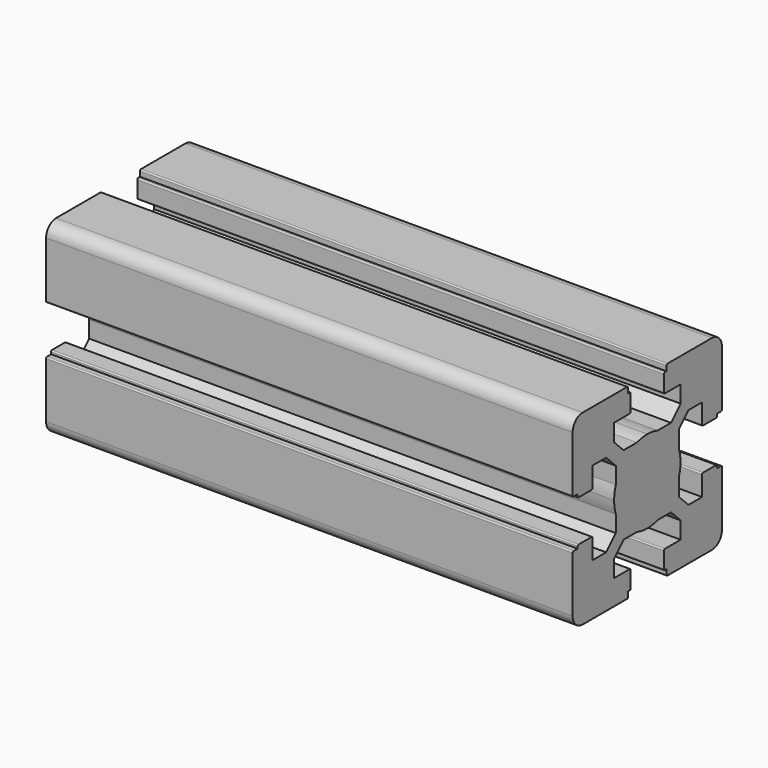
from build123d import *

# Parameters (mm, degrees)
F1_DEPTH = 127


with BuildPart() as f1:
    # F0 (on Right) → F1 (new body)
    with BuildSketch(Plane.YZ):
        with BuildLine():
            Line((-20.088481, -9.788837), (-20.088481, -10.288837))
            Line((-20.088481, -10.288837), (-21.28859, -10.288837))
            ThreePointArc((-21.28859, -10.288837), (-21.500722, -10.376705), (-21.58859, -10.588837))
            Line((-21.58859, -10.588837), (-21.58859, -23.988949))
            ThreePointArc((-21.58859, -23.988949), (-20.70991, -26.11027), (-18.58859, -26.988949))
            Line((-18.58859, -26.988949), (-5.188544, -26.988949))
            ThreePointArc((-5.188544, -26.988949), (-4.976411, -26.901081), (-4.888544, -26.688949))
            Line((-4.888544, -26.688949), (-4.888544, -25.488841))
            Line((-4.888544, -25.488841), (-4.388544, -25.488841))
            ThreePointArc((-4.388544, -25.488841), (-4.176411, -25.400973), (-4.088544, -25.188841))
            Line((-4.088544, -25.188841), (-4.088544, -21.288841))
            ThreePointArc((-4.088544, -21.288841), (-4.176411, -21.076709), (-4.388544, -20.988841))
            Line((-4.388544, -20.988841), (-9.138663, -20.988841))
            Line((-9.138663, -20.988841), (-9.138663, -16.881665))
            Line((-9.138663, -16.881665), (-6.245729, -13.988731))
            Line((-6.245729, -13.988731), (-2.211433, -13.988731))
            ThreePointArc((-2.211433, -13.988731), (-0.669869, -14.363044), (0.91149, -14.48887))
            Line((0.91149, -14.48887), (0.91149, -4.48887))
            Line((0.91149, -4.48887), (-9.08851, -4.48887))
            ThreePointArc((-9.08851, -4.48887), (-8.962684, -6.070229), (-8.588371, -7.611793))
            Line((-8.588371, -7.611793), (-8.588371, -11.646022))
            Line((-8.588371, -11.646022), (-11.481305, -14.538956))
            Line((-11.481305, -14.538956), (-15.588481, -14.538956))
            Line((-15.588481, -14.538956), (-15.588481, -9.788837))
            ThreePointArc((-15.588481, -9.788837), (-15.676349, -9.576705), (-15.888481, -9.488837))
            Line((-15.888481, -9.488837), (-19.788481, -9.488837))
            ThreePointArc((-19.788481, -9.488837), (-20.000613, -9.576705), (-20.088481, -9.788837))
        make_face()
        with BuildLine():
            ThreePointArc((-8.588371, -1.365947), (-8.962684, -2.907511), (-9.08851, -4.48887))
            Line((-9.08851, -4.48887), (0.91149, -4.48887))
            Line((0.91149, -4.48887), (0.91149, 5.51113))
            ThreePointArc((0.91149, 5.51113), (-0.669869, 5.385303), (-2.211433, 5.010991))
            Line((-2.211433, 5.010991), (-6.245729, 5.010991))
            Line((-6.245729, 5.010991), (-9.138663, 7.903925))
            Line((-9.138663, 7.903925), (-9.138663, 12.011101))
            Line((-9.138663, 12.011101), (-4.388544, 12.011101))
            ThreePointArc((-4.388544, 12.011101), (-4.176411, 12.098969), (-4.088544, 12.311101))
            Line((-4.088544, 12.311101), (-4.088544, 16.211101))
            ThreePointArc((-4.088544, 16.211101), (-4.176411, 16.423233), (-4.388544, 16.511101))
            Line((-4.388544, 16.511101), (-4.888544, 16.511101))
            Line((-4.888544, 16.511101), (-4.888544, 17.711209))
            ThreePointArc((-4.888544, 17.711209), (-4.976411, 17.923341), (-5.188544, 18.011209))
            Line((-5.188544, 18.011209), (-18.58859, 18.011209))
            ThreePointArc((-18.58859, 18.011209), (-20.70991, 17.13253), (-21.58859, 15.011209))
            Line((-21.58859, 15.011209), (-21.58859, 1.611097))
            ThreePointArc((-21.58859, 1.611097), (-21.500722, 1.398965), (-21.28859, 1.311097))
            Line((-21.28859, 1.311097), (-20.088481, 1.311097))
            Line((-20.088481, 1.311097), (-20.088481, 0.811097))
            ThreePointArc((-20.088481, 0.811097), (-20.000613, 0.598965), (-19.788481, 0.511097))
            Line((-19.788481, 0.511097), (-15.888481, 0.511097))
            ThreePointArc((-15.888481, 0.511097), (-15.676349, 0.598965), (-15.588481, 0.811097))
            Line((-15.588481, 0.811097), (-15.588481, 5.561216))
            Line((-15.588481, 5.561216), (-11.481305, 5.561216))
            Line((-11.481305, 5.561216), (-8.588371, 2.668282))
            Line((-8.588371, 2.668282), (-8.588371, -1.365947))
        make_face()
        with BuildLine():
            Line((0.91149, 5.51113), (0.91149, -4.48887))
            Line((0.91149, -4.48887), (10.91149, -4.48887))
            ThreePointArc((10.91149, -4.48887), (10.785663, -2.907511), (10.41135, -1.365947))
            Line((10.41135, -1.365947), (10.41135, 2.668282))
            Line((10.41135, 2.668282), (13.304285, 5.561216))
            Line((13.304285, 5.561216), (14.016842, 5.561216))
            Line((14.016842, 5.561216), (17.41146, 5.561216))
            Line((17.41146, 5.561216), (17.41146, 0.811097))
            ThreePointArc((17.41146, 0.811097), (17.499328, 0.598965), (17.71146, 0.511097))
            Line((17.71146, 0.511097), (21.61146, 0.511097))
            ThreePointArc((21.61146, 0.511097), (21.823593, 0.598965), (21.91146, 0.811097))
            Line((21.91146, 0.811097), (21.91146, 1.311097))
            Line((21.91146, 1.311097), (23.111569, 1.311097))
            ThreePointArc((23.111569, 1.311097), (23.323701, 1.398965), (23.411569, 1.611097))
            Line((23.411569, 1.611097), (23.411569, 15.011209))
            ThreePointArc((23.411569, 15.011209), (22.532889, 17.13253), (20.411569, 18.011209))
            Line((20.411569, 18.011209), (7.011523, 18.011209))
            ThreePointArc((7.011523, 18.011209), (6.799391, 17.923341), (6.711523, 17.711209))
            Line((6.711523, 17.711209), (6.711523, 16.511101))
            Line((6.711523, 16.511101), (6.211523, 16.511101))
            ThreePointArc((6.211523, 16.511101), (5.999391, 16.423233), (5.911523, 16.211101))
            Line((5.911523, 16.211101), (5.911523, 12.311101))
            ThreePointArc((5.911523, 12.311101), (5.999391, 12.098969), (6.211523, 12.011101))
            Line((6.211523, 12.011101), (10.961642, 12.011101))
            Line((10.961642, 12.011101), (10.961642, 7.903925))
            Line((10.961642, 7.903925), (8.068708, 5.010991))
            Line((8.068708, 5.010991), (4.034413, 5.010991))
            ThreePointArc((4.034413, 5.010991), (2.492849, 5.385303), (0.91149, 5.51113))
        make_face()
        with BuildLine():
            Line((10.91149, -4.48887), (0.91149, -4.48887))
            Line((0.91149, -4.48887), (0.91149, -14.48887))
            ThreePointArc((0.91149, -14.48887), (2.492849, -14.363044), (4.034413, -13.988731))
            Line((4.034413, -13.988731), (8.068708, -13.988731))
            Line((8.068708, -13.988731), (10.961642, -16.881665))
            Line((10.961642, -16.881665), (10.961642, -20.988841))
            Line((10.961642, -20.988841), (6.211523, -20.988841))
            ThreePointArc((6.211523, -20.988841), (5.999391, -21.076709), (5.911523, -21.288841))
            Line((5.911523, -21.288841), (5.911523, -25.188841))
            ThreePointArc((5.911523, -25.188841), (5.999391, -25.400973), (6.211523, -25.488841))
            Line((6.211523, -25.488841), (6.711523, -25.488841))
            Line((6.711523, -25.488841), (6.711523, -26.688949))
            ThreePointArc((6.711523, -26.688949), (6.799391, -26.901081), (7.011523, -26.988949))
            Line((7.011523, -26.988949), (20.411569, -26.988949))
            ThreePointArc((20.411569, -26.988949), (22.532889, -26.11027), (23.411569, -23.988949))
            Line((23.411569, -23.988949), (23.411569, -10.588837))
            ThreePointArc((23.411569, -10.588837), (23.323701, -10.376705), (23.111569, -10.288837))
            Line((23.111569, -10.288837), (21.91146, -10.288837))
            Line((21.91146, -10.288837), (21.91146, -9.788837))
            ThreePointArc((21.91146, -9.788837), (21.823593, -9.576705), (21.61146, -9.488837))
            Line((21.61146, -9.488837), (17.71146, -9.488837))
            ThreePointArc((17.71146, -9.488837), (17.499328, -9.576705), (17.41146, -9.788837))
            Line((17.41146, -9.788837), (17.41146, -14.538956))
            Line((17.41146, -14.538956), (13.304285, -14.538956))
            Line((13.304285, -14.538956), (10.41135, -11.646022))
            Line((10.41135, -11.646022), (10.41135, -7.611793))
            ThreePointArc((10.41135, -7.611793), (10.785663, -6.070229), (10.91149, -4.48887))
        make_face()
    extrude(amount=F1_DEPTH)


solid = f1.part
